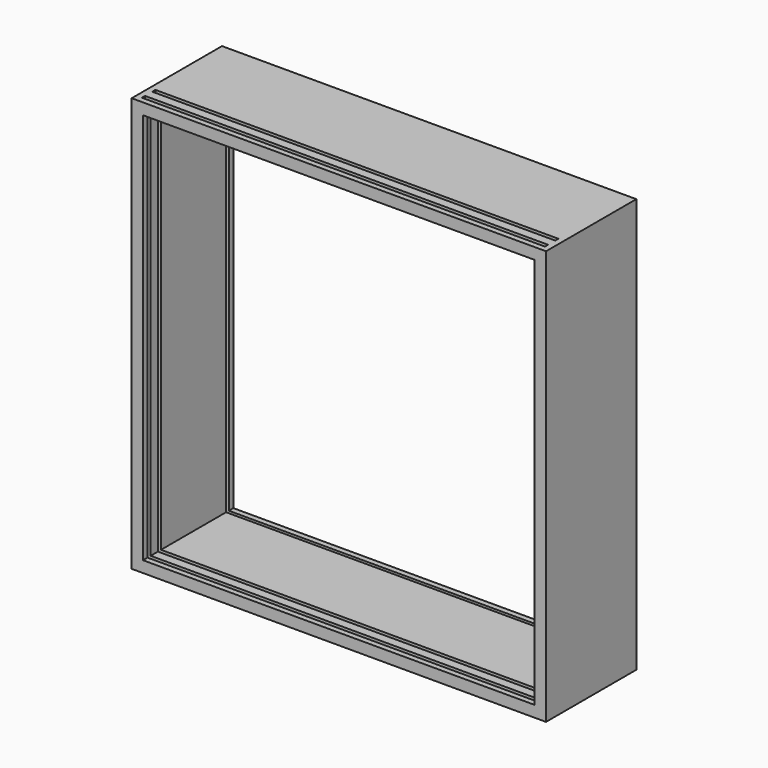
from build123d import *

# Parameters (mm, degrees)
F1_W      = 367
F1_H      = 367
F2_DEPTH  = 100
F3_W      = 347
F3_H      = 347
F4_DEPTH  = 100.001
F6_W      = 357
F6_H      = 362
F7_DEPTH  = 3.5
F9_W      = 357
F9_H      = 357
F10_DEPTH = 3
F12_W     = 357
F12_H     = 362
F13_DEPTH = 3.5


with BuildPart() as f2:
    # F1 (on Front) → F2 (new body)
    with BuildSketch(Plane.XZ):
        Rectangle(F1_W, F1_H)
    extrude(amount=-F2_DEPTH)

    # F3 (on Front) → F4 (cut, through all)
    with BuildSketch(Plane.XZ):
        Rectangle(F3_W, F3_H)
    extrude(amount=-F4_DEPTH, mode=Mode.SUBTRACT)

    # F6 (on offset) → F7 (cut)
    with BuildSketch(Plane.XZ.offset(-5)):
        with Locations((0, 2.5)):
            Rectangle(F6_W, F6_H)
    extrude(amount=-F7_DEPTH, mode=Mode.SUBTRACT)

    # F9 (on offset) → F10 (cut)
    with BuildSketch(Plane.XZ.offset(-95)):
        Rectangle(F9_W, F9_H)
    extrude(amount=F10_DEPTH, mode=Mode.SUBTRACT)

    # F12 (on offset) → F13 (cut)
    with BuildSketch(Plane.XZ.offset(-16.5)):
        with Locations((0, 2.5)):
            Rectangle(F12_W, F12_H)
    extrude(amount=-F13_DEPTH, mode=Mode.SUBTRACT)


solid = f2.part
